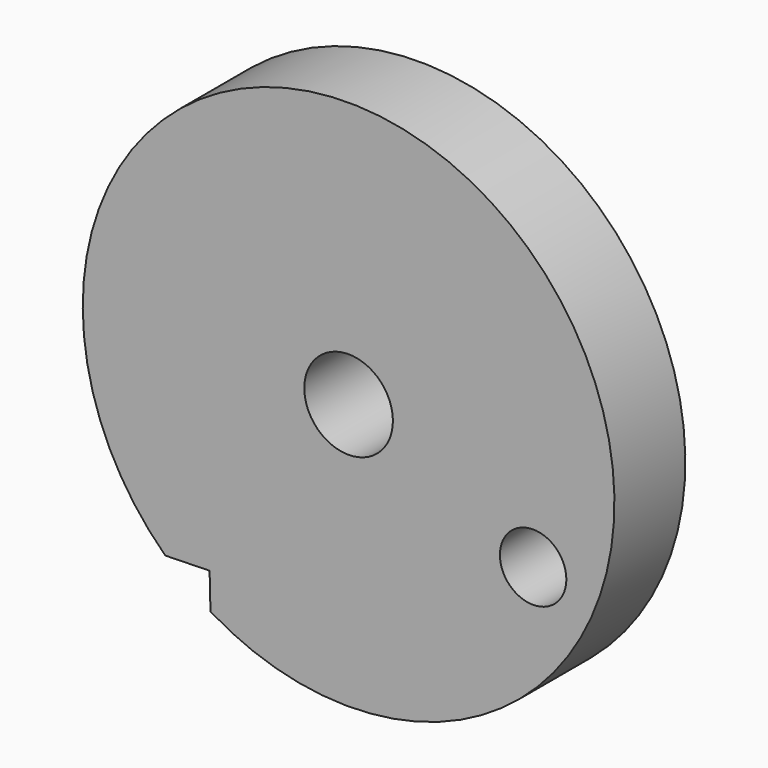
from build123d import *

# Parameters (mm, degrees)
F0_R     = 1.190625
F0_R_2   = 1.5875
F1_DEPTH = 1.5875


with BuildPart() as f1:
    # F0 (on Front) → F1 (new body, symmetric)
    with BuildSketch(Plane.XZ):
        with BuildLine():
            Line((-4.19507, -3.443071), (-4.164685, -4.719849))
            ThreePointArc((-4.164685, -4.719849), (6.575626, 10.980695), (-5.78257, -3.480852))
            Line((-5.78257, -3.480852), (-4.19507, -3.443071))
        make_face()
        with Locations((7.395771, 0.439879)):
            Circle(F0_R, mode=Mode.SUBTRACT)
        with Locations((0.784385, 3.418477)):
            Circle(F0_R_2, mode=Mode.SUBTRACT)
    extrude(amount=F1_DEPTH, both=True)


solid = f1.part
